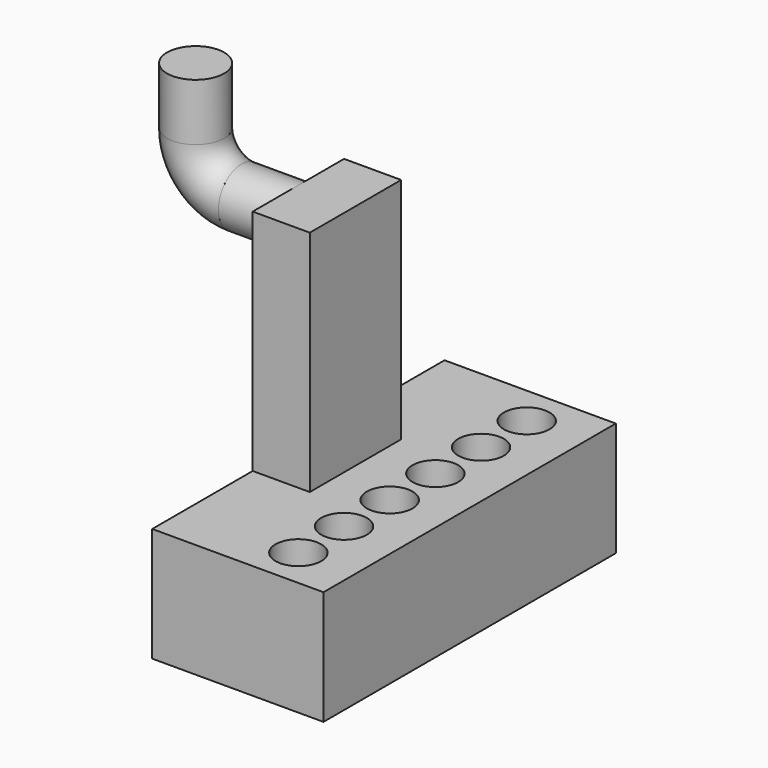
from build123d import *

# Parameters (mm, degrees)
CYLINDER002_R           = 2.5
CYLINDER002_DEPTH       = 6
CYLINDER002_PITCH_ANGLE = -90
BOX001_W                = 5
BOX001_H                = 10
BOX001_DEPTH            = 30
CYLINDER003_R           = 2.5
CYLINDER003_DEPTH       = 5
CYLINDER003_PITCH_ANGLE = -90
TORUS_R                 = 2.5
TORUS_ANGLE             = 90
CYLINDER004_R           = 2.5
CYLINDER004_DEPTH       = 5
BOX002_W                = 5
BOX002_H                = 4
BOX002_DEPTH            = 4
CYLINDER_R              = 2
CYLINDER_DEPTH          = 10
ARRAY_Y_COUNT           = 6
ARRAY_Y_PITCH           = 5
BOX_W                   = 15
BOX_H                   = 32
BOX_DEPTH               = 10


with BuildPart() as cylinder002:
    # Cylinder002 → Cylinder002 (new body)
    with BuildSketch(Plane.XY):
        Circle(CYLINDER002_R)
    extrude(amount=CYLINDER002_DEPTH)


with BuildPart() as cylinder002_1:
    # Cylinder002 pitch: moved
    add(cylinder002.part.rotate(Axis((0, 0, 0), (0, 1, 0)), CYLINDER002_PITCH_ANGLE))


with BuildPart() as cylinder002_2:
    # Cylinder002 placement: moved
    add(cylinder002_1.part.moved(Location((-5, 0, 2.5))))


with BuildPart() as cube001:
    # Box001 → Box001 (new body)
    with BuildSketch(Plane(origin=(-5, -5, 0), x_dir=(1, 0, 0), z_dir=(0, 0, 1))):
        with Locations((2.5, 5)):
            Rectangle(BOX001_W, BOX001_H)
    extrude(amount=BOX001_DEPTH)


with BuildPart() as cylinder003:
    # Cylinder003 → Cylinder003 (new body)
    with BuildSketch(Plane.XY):
        Circle(CYLINDER003_R)
    extrude(amount=CYLINDER003_DEPTH)


with BuildPart() as cylinder003_1:
    # Cylinder003 pitch: moved
    add(cylinder003.part.rotate(Axis((0, 0, 0), (0, 1, 0)), CYLINDER003_PITCH_ANGLE))


with BuildPart() as cylinder003_2:
    # Cylinder003 placement: moved
    add(cylinder003_1.part.moved(Location((-5, 0, 27.5))))


with BuildPart() as torus:
    # Torus → Torus (revolve)
    with BuildSketch(Plane(origin=(-10, 0, 31.5), x_dir=(0, 0, -1), z_dir=(1, 0, 0))):
        with Locations((4, 0)):
            Circle(TORUS_R)
    revolve(axis=Axis((-10, 0, 31.5), (0, 1, 0)), revolution_arc=TORUS_ANGLE)


with BuildPart() as cylinder004:
    # Cylinder004 → Cylinder004 (new body)
    with BuildSketch(Plane(origin=(-14, 0, 31.5), x_dir=(1, 0, 0), z_dir=(0, 0, 1))):
        Circle(CYLINDER004_R)
    extrude(amount=CYLINDER004_DEPTH)


with BuildPart() as cube002:
    # Box002 → Box002 (new body)
    with BuildSketch(Plane(origin=(-10, -2, 0.5), x_dir=(1, 0, 0), z_dir=(0, 0, 1))):
        with Locations((2.5, 2)):
            Rectangle(BOX002_W, BOX002_H)
    extrude(amount=BOX002_DEPTH)


with BuildPart() as array:
    # Cylinder → Cylinder (new body)
    with BuildSketch(Plane(origin=(5, -12.5, 0), x_dir=(1, 0, 0), z_dir=(0, 0, 1))):
        Circle(CYLINDER_R)
    extrude(amount=CYLINDER_DEPTH)

    # Array Y: Array ×6


with BuildPart() as array_1:
    add(array.part)
    with Locations(*[(0, i * ARRAY_Y_PITCH, 0) for i in range(1, ARRAY_Y_COUNT)]):
        add(array.part)


with BuildPart() as cut:
    # Box → Box (new body)
    with BuildSketch(Plane(origin=(-5, -16, 0), x_dir=(1, 0, 0), z_dir=(0, 0, 1))):
        with Locations((7.5, 16)):
            Rectangle(BOX_W, BOX_H)
    extrude(amount=BOX_DEPTH)

    # Cut: cut Array
    add(array_1.part, mode=Mode.SUBTRACT)


solid = Compound([cylinder002_2.part, cube001.part, cylinder003_2.part, torus.part, cylinder004.part, cube002.part, cut.part])
